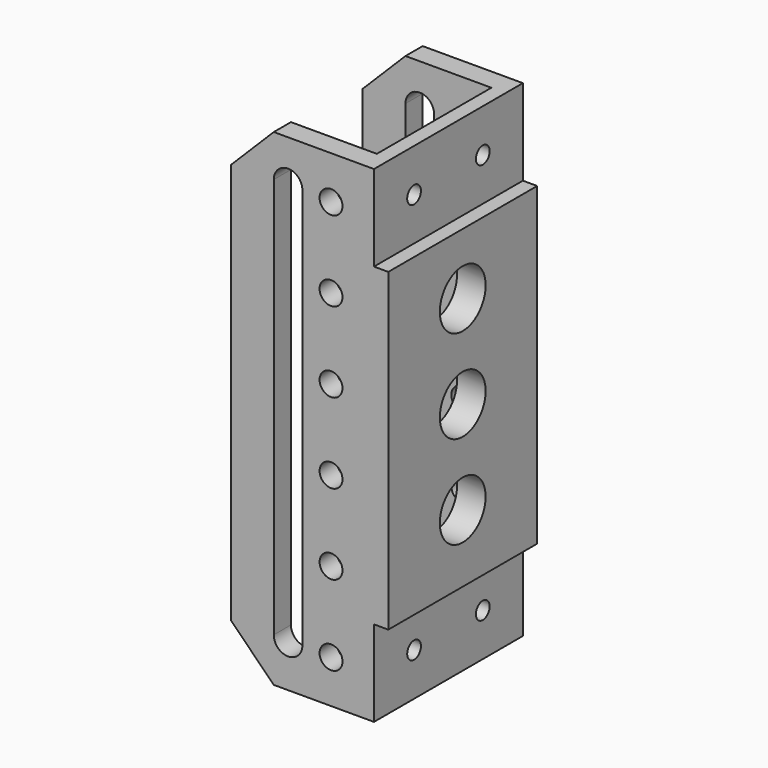
from build123d import *

# Parameters (mm, degrees)
PAD_DEPTH              = 65
POCKET_DEPTH           = 65.001
SKETCH002_R            = 4
POCKET001_DEPTH        = 65.001
LINEARPATTERN_COUNT    = 6
LINEARPATTERN_PITCH    = 28
SKETCH003_W            = 170
SKETCH003_H            = 50
POCKET002_DEPTH        = 45
SKETCH004_W            = 30
SKETCH004_H            = 65
POCKET003_DEPTH        = 5
SKETCH005_R            = 3
POCKET004_DEPTH        = 50.001
SKETCH035_R            = 10
POCKET023_DEPTH        = 55.001
LINEARPATTERN001_COUNT = 3
LINEARPATTERN001_PITCH = 32.5


with BuildPart() as part:
    # Sketch → Pad (new body)
    with BuildSketch(Plane.XZ):
        Polygon((-9.174668, 84.617545), (30.825332, 84.617545), (30.825332, -85.382455), (-9.174668, -85.382455), (-24.174668, -70.382455), (-24.174668, 69.617545), align=None)
    extrude(amount=PAD_DEPTH)

    # Sketch001 (on Face8 of Pad) → Pocket (cut, through all)
    with BuildSketch(Plane.XZ.offset(65)):
        with BuildLine():
            ThreePointArc((0.825332, 70), (-4.174668, 75), (-9.174668, 70))
            Line((-9.174668, 70), (-9.174668, -70))
            ThreePointArc((-9.174668, -70), (-4.174668, -75), (0.825332, -70))
            Line((0.825332, 70), (0.825332, -70))
        make_face()
    extrude(amount=-POCKET_DEPTH, mode=Mode.SUBTRACT)

    # Sketch002 (on Face5 of Pocket) → Pocket001 (cut, through all)
    with BuildSketch(Plane.XZ.offset(65)):
        with Locations((10.825332, 69.617545)):
            Circle(SKETCH002_R)
    pocket001 = extrude(amount=-POCKET001_DEPTH, mode=Mode.SUBTRACT)

    # LinearPattern: Pocket001 ×6
    with Locations(*[(0, 0, -i * LINEARPATTERN_PITCH) for i in range(1, LINEARPATTERN_COUNT)]):
        add(pocket001, mode=Mode.SUBTRACT)

    # Sketch003 (on Face1 of LinearPattern) → Pocket002 (cut)
    with BuildSketch(Plane(origin=(-24.174668, 0, 0), x_dir=(0, 0, -1), z_dir=(-1, 0, 0))):
        with Locations((0.382455, 32.5)):
            Rectangle(SKETCH003_W, SKETCH003_H)
    extrude(amount=-POCKET002_DEPTH, mode=Mode.SUBTRACT)

    # Sketch004 (on Face8 of Pocket002) → Pocket003 (cut)
    with BuildSketch(Plane(origin=(30.825332, 0, 0), x_dir=(0, 0, 1), z_dir=(1, 0, 0))):
        with Locations((-70.382455, 32.5)):
            Rectangle(SKETCH004_W, SKETCH004_H)
        with Locations((69.617545, 32.5)):
            Rectangle(SKETCH004_W, SKETCH004_H)
    extrude(amount=-POCKET003_DEPTH, mode=Mode.SUBTRACT)

    # Sketch005 → Pocket004 (cut, through all)
    with BuildSketch(Plane(origin=(25.825332, 0, 0), x_dir=(0, 0, 1), z_dir=(1, 0, 0))):
        with Locations((-70.382455, 17.5)):
            Circle(SKETCH005_R)
        with Locations((-70.382455, 47.5)):
            Circle(SKETCH005_R)
        with Locations((69.617545, 47.5)):
            Circle(SKETCH005_R)
        with Locations((69.617545, 17.5)):
            Circle(SKETCH005_R)
    extrude(amount=-POCKET004_DEPTH, mode=Mode.SUBTRACT)

    # Sketch035 → Pocket023 (cut, through all)
    with BuildSketch(Plane(origin=(30.825332, 0, 0), x_dir=(0, 0, 1), z_dir=(1, 0, 0))):
        with Locations((-31.789585, 32.5)):
            Circle(SKETCH035_R)
    pocket023 = extrude(amount=-POCKET023_DEPTH, mode=Mode.SUBTRACT)

    # LinearPattern001: Pocket023 ×3
    with Locations(*[(0, 0, i * LINEARPATTERN001_PITCH) for i in range(1, LINEARPATTERN001_COUNT)]):
        add(pocket023, mode=Mode.SUBTRACT)


solid = part.part
